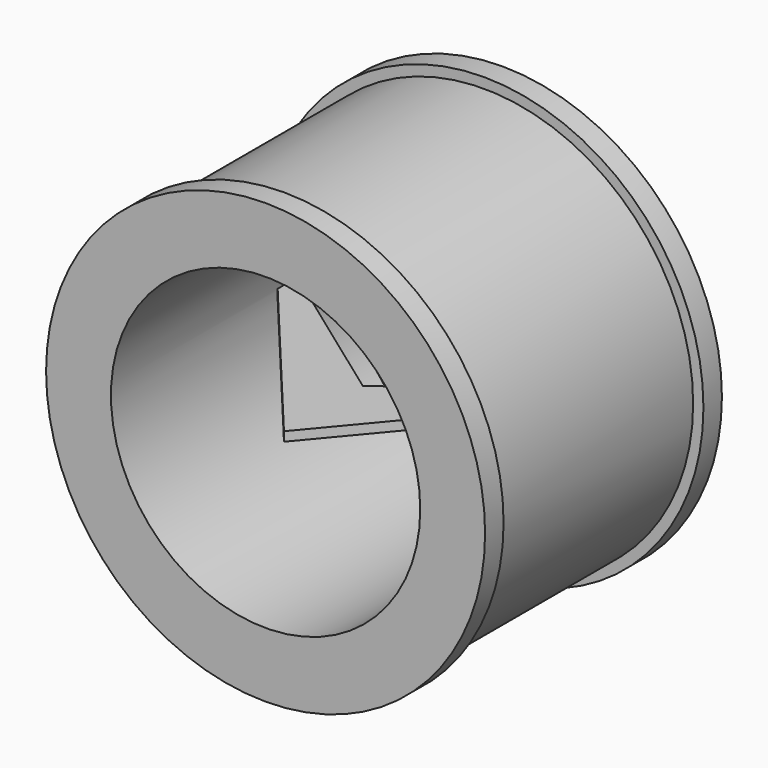
from build123d import *

# Parameters (mm, degrees)
F0_R        = 11.5
F0_R_2      = 8.5
F1_DEPTH    = 15
F1_FACE_R   = 11.5
F1_FACE_R_2 = 8.5
F2_R        = 12.065
F2_R_2      = 8.568033
F3_DEPTH    = 1.27
F4_R        = 12.065
F4_R_2      = 8.746033
F5_DEPTH    = 1.27
F7_DEPTH    = 0.508


with BuildPart() as f1:
    # F0 (on Front) → F1 (new body)
    with BuildSketch(Plane.XZ):
        Circle(F0_R)
        Circle(F0_R_2, mode=Mode.SUBTRACT)
    extrude(amount=F1_DEPTH)

    # F1_face (on face) + F2 (on Front) → F3 (join)
    with BuildSketch(Plane.XZ.offset(15)):
        Circle(F1_FACE_R)
        Circle(F1_FACE_R_2, mode=Mode.SUBTRACT)
    with BuildSketch(Plane.XZ):
        Circle(F2_R)
        Circle(F2_R_2, mode=Mode.SUBTRACT)
    extrude(amount=F3_DEPTH)

    # F4 (on face) → F5 (join)
    with BuildSketch(Plane.XZ.offset(16.27)):
        Circle(F4_R)
        Circle(F4_R_2, mode=Mode.SUBTRACT)
    extrude(amount=-F5_DEPTH)

    # F6 (on Top) → F7 (join)
    with BuildSketch(Plane.XY):
        Polygon((-11.340066, -1.413542), (0, -15.007579), (11.340066, -1.413542), (0, -9.597708), align=None)
        Polygon((7.59477, -1.413542), (0, -1.413542), (-7.59477, -1.413542), (0, -5.991126), align=None)
    extrude(amount=F7_DEPTH)


solid = f1.part
